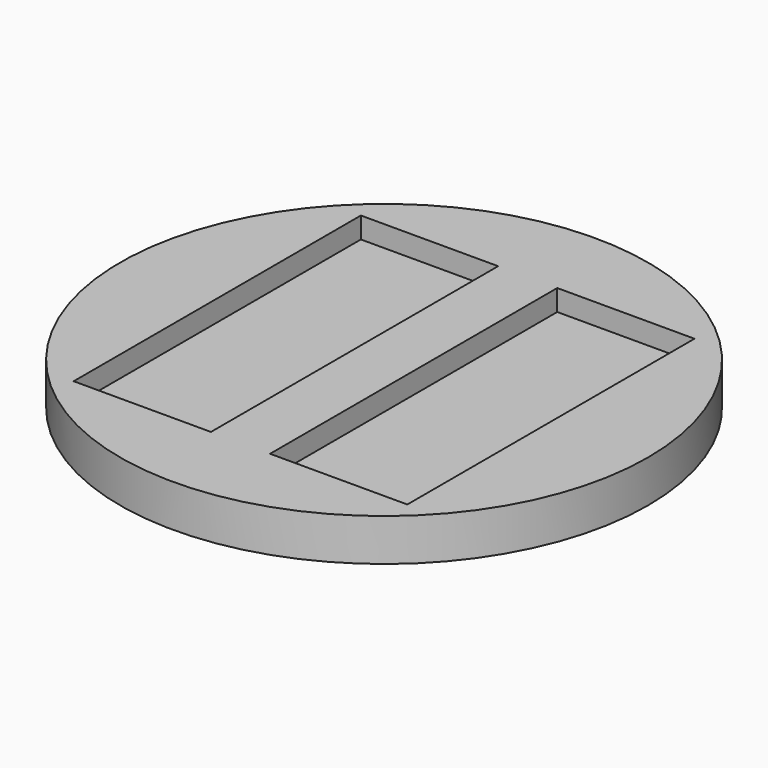
from build123d import *

# Parameters (mm, degrees)
F0_W     = 6.5
F0_H     = 17
F1_DEPTH = 1
F0_R     = 12.5
F2_DEPTH = 2


with BuildPart() as f1:
    # F0 (on Top) → F1 (new body)
    with BuildSketch(Plane.XY):
        with Locations((6.632698, -10.71882)):
            Rectangle(F0_W, F0_H)
        with Locations((15.932698, -10.71882)):
            Rectangle(F0_W, F0_H)
    extrude(amount=F1_DEPTH)


with BuildPart() as f2:
    # F0 (on Top) → F2 (new body)
    with BuildSketch(Plane.XY):
        with Locations((11.282698, -10.71882)):
            Circle(F0_R)
        with Locations((6.632698, -10.71882)):
            Rectangle(F0_W, F0_H, mode=Mode.SUBTRACT)
        with Locations((15.932698, -10.71882)):
            Rectangle(F0_W, F0_H, mode=Mode.SUBTRACT)
    extrude(amount=F2_DEPTH)


solid = Compound([f1.part, f2.part])
